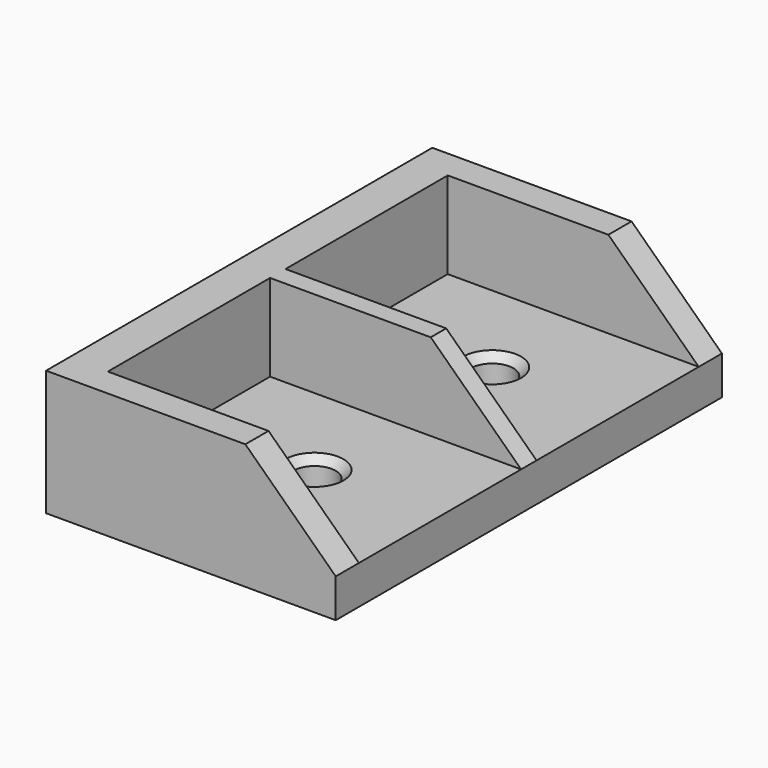
from build123d import *

# Parameters (mm, degrees)
SKETCH011_W         = 30
SKETCH011_H         = 50
PAD009_DEPTH        = 4
SKETCH007_W         = 50
SKETCH007_H         = 25
PAD006_DEPTH        = 4
PAD007_DEPTH        = 3
PAD005_DEPTH        = 1
PAD008_DEPTH        = 3
HOLE001_D           = 4.4
HOLE001_DEPTH       = 25
HOLE001_CSINK_D     = 8
HOLE001_CSINK_ANGLE = 90
SKETCH012_W         = 40.900608
SKETCH012_H         = 56.513194
POCKET_DEPTH        = 25


with BuildPart() as part:
    # Sketch011 → Pad009 (new body)
    with BuildSketch(Plane.XY):
        with Locations((15, 25)):
            Rectangle(SKETCH011_W, SKETCH011_H)
    extrude(amount=PAD009_DEPTH)

    # Sketch007 → Pad006 (join)
    with BuildSketch(Plane(origin=(0, 0, 0), x_dir=(0, -1, 0), z_dir=(-1, 0, 0))):
        with Locations((-25, 16.5)):
            Rectangle(SKETCH007_W, SKETCH007_H)
    extrude(amount=-PAD006_DEPTH)

    # Sketch008 → Pad007 (join)
    with BuildSketch(Plane.XZ):
        Polygon((4, 4), (4, 29), (30, 4), align=None)
    extrude(amount=-PAD007_DEPTH)

    # Sketch009 → Pad005 (join, symmetric)
    with BuildSketch(Plane.XZ.offset(-25)):
        Polygon((4, 4), (4, 29), (30, 4), align=None)
    extrude(amount=PAD005_DEPTH, both=True)

    # Sketch006 → Pad008 (join)
    with BuildSketch(Plane.XZ.offset(-50)):
        Polygon((4, 29), (4, 4), (30, 4), align=None)
    extrude(amount=PAD008_DEPTH)

    # Hole001
    with Locations(Plane.XY.offset(5)):
        with Locations((17, 36.5), (17, 13.5)):
            CounterSinkHole(HOLE001_D / 2, HOLE001_CSINK_D / 2, depth=HOLE001_DEPTH, counter_sink_angle=HOLE001_CSINK_ANGLE)

    # Sketch012 → Pocket (cut)
    with BuildSketch(Plane.XY.offset(13)):
        with Locations((14.816534, 25.266581)):
            Rectangle(SKETCH012_W, SKETCH012_H)
    extrude(amount=POCKET_DEPTH, mode=Mode.SUBTRACT)


solid = part.part
